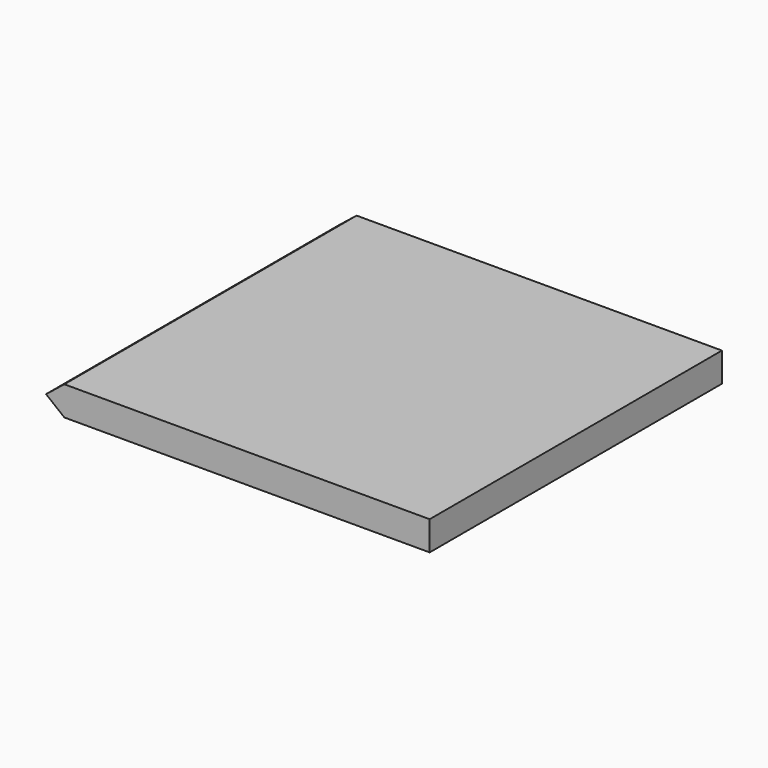
from build123d import *

# Parameters (mm, degrees)
PAD_DEPTH = 50


with BuildPart() as part:
    # Sketch → Pad (new body)
    with BuildSketch(Plane.XZ):
        Polygon((0, 0), (-2.5, 2), (0, 4), (50, 4), (50, 0), align=None)
    extrude(amount=PAD_DEPTH)


solid = part.part
